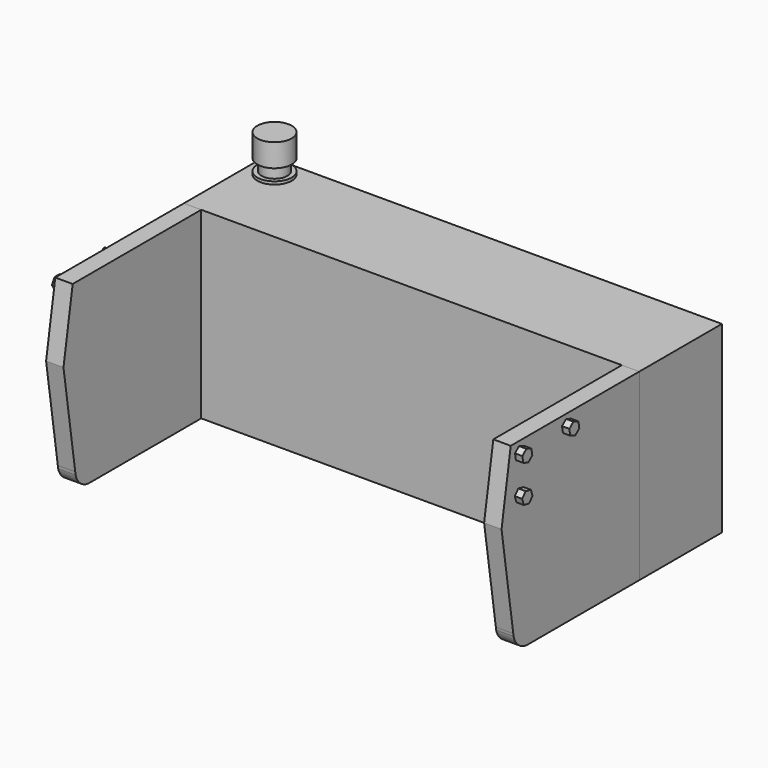
from build123d import *

# Parameters (mm, degrees)
F0_W      = 15.748
F0_H      = 6.35
F1_DEPTH  = 3.571875
F3_DEPTH  = 0.60198
F5_DEPTH  = 0.60198
F6_R      = 0.5953125
F7_DEPTH  = 0.09921748
F8_R      = 0.4445
F9_DEPTH  = 0.396875
F11_DEPTH = 0.254
F12_DEPTH = 0.254
F13_DEPTH = 0.254
F15_DEPTH = 0.254
F16_DEPTH = 0.254
F17_DEPTH = 0.254
F18_R     = 0.5953125
F18_R_2   = 0.4445
F19_DEPTH = 0.79375


with BuildPart() as f1:
    # F0 (on Front) → F1 (new body)
    with BuildSketch(Plane.XZ):
        Rectangle(F0_W, F0_H)
    extrude(amount=F1_DEPTH)

    # F6 (on face) → F7 (join)
    with BuildSketch(Plane.XY.offset(3.175)):
        with Locations((-7.017956581, -0.7218440296)):
            Circle(F6_R)
    extrude(amount=F7_DEPTH)

    # F8 (on face) → F9 (join)
    with BuildSketch(Plane.XY.offset(3.27421748)):
        with Locations((-7.017956581, -0.7218440296)):
            Circle(F8_R)
    extrude(amount=F9_DEPTH)

    # F18 (on face) → F19 (join)
    with BuildSketch(Plane.XY.offset(3.67109248)):
        with Locations((-7.017956581, -0.7218440296)):
            Circle(F18_R)
        with Locations((-7.017956581, -0.7218440296)):
            Circle(F18_R_2, mode=Mode.SUBTRACT)
        with Locations((-7.017956581, -0.7218440296)):
            Circle(F18_R_2)
    extrude(amount=F19_DEPTH)


with BuildPart() as f3:
    # F2 (on face) → F3 (new body)
    with BuildSketch(Plane(origin=(-7.874, 0, 0), x_dir=(0, -1, 0), z_dir=(-1, 0, 0))):
        with BuildLine():
            Line((9.128125, 3.175), (3.571875, 3.175))
            Line((3.571875, 3.175), (3.571875, -3.175))
            Line((3.571875, -3.175), (8.334375, -3.175))
            Line((8.334375, -3.175), (8.4411502676, -3.175))
            ThreePointArc((8.4411502676, -3.175), (8.799876088, -3.0242646213), (9.0021573343, -2.6918677712))
            Line((9.0021573343, -2.6918677712), (9.0179964259, -2.5862738274))
            Line((9.0179964259, -2.5862738274), (9.525, 0.79375))
            Line((9.525, 0.79375), (9.128125, 3.175))
        make_face()
    extrude(amount=-F3_DEPTH)

    # F10 (on face) → F11 (join)
    with BuildSketch(Plane(origin=(-7.874, 0, 0), x_dir=(0, -1, 0), z_dir=(-1, 0, 0))):
        Polygon((8.6135505511, 2.5955625), (8.8426864392, 2.5955625), (8.9572543833, 2.794), (8.8426864392, 2.9924375), (8.6135505511, 2.9924375), (8.4989826071, 2.794), align=None)
    extrude(amount=F11_DEPTH)

    # F10 (on face) → F12 (join)
    with BuildSketch(Plane(origin=(-7.874, 0, 0), x_dir=(0, -1, 0), z_dir=(-1, 0, 0))):
        Polygon((8.8426864392, 1.3255625), (8.9572543833, 1.524), (8.8426864392, 1.7224375), (8.6135505511, 1.7224375), (8.4989826071, 1.524), (8.6135505511, 1.3255625), align=None)
    extrude(amount=F12_DEPTH)

    # F10 (on face) → F13 (join)
    with BuildSketch(Plane(origin=(-7.874, 0, 0), x_dir=(0, -1, 0), z_dir=(-1, 0, 0))):
        Polygon((6.7025459962, 2.5649542787), (6.897691659, 2.6850435185), (6.8912641579, 2.9140892398), (6.6896909942, 3.0230457213), (6.4945453314, 2.9029564815), (6.5009728324, 2.6739107602), align=None)
    extrude(amount=F13_DEPTH)


with BuildPart() as f5:
    # F4 (on face) → F5 (new body)
    with BuildSketch(Plane.YZ.offset(7.874)):
        with BuildLine():
            Line((-3.571875, -3.175), (-3.571875, 3.175))
            Line((-3.571875, 3.175), (-9.128125, 3.175))
            Line((-9.128125, 3.175), (-9.525, 0.79375))
            Line((-9.525, 0.79375), (-9.0179964259, -2.5862738274))
            Line((-9.0179964259, -2.5862738274), (-9.0046285555, -2.6753929631))
            ThreePointArc((-9.0046285555, -2.6753929631), (-8.7974184271, -3.0214108164), (-8.4244911489, -3.175))
            Line((-8.4244911489, -3.175), (-8.334375, -3.175))
            Line((-8.334375, -3.175), (-3.571875, -3.175))
        make_face()
    extrude(amount=-F5_DEPTH)

    # F14 (on face) → F15 (join)
    with BuildSketch(Plane.YZ.offset(7.874)):
        Polygon((-8.6870932965, 2.5685666656), (-8.5123749013, 2.7168121971), (-8.5534001001, 2.9422455315), (-8.7691436939, 3.0194333344), (-8.943862089, 2.8711878029), (-8.9028368903, 2.6457544685), align=None)
    extrude(amount=F15_DEPTH)

    # F14 (on face) → F16 (join)
    with BuildSketch(Plane.YZ.offset(7.874)):
        Polygon((-6.6569290081, 2.5682403063), (-6.4810101217, 2.7150592445), (-6.5201996088, 2.9408189382), (-6.7353079822, 3.0197596937), (-6.9112268686, 2.8729407555), (-6.8720373816, 2.6471810618), align=None)
    extrude(amount=F16_DEPTH)

    # F14 (on face) → F17 (join)
    with BuildSketch(Plane.YZ.offset(7.874)):
        Polygon((-8.5750005157, 1.6944644819), (-8.7991860772, 1.7418363009), (-8.9523040567, 1.5713718191), (-8.8812364747, 1.3535355181), (-8.6570509132, 1.3061636991), (-8.5039329337, 1.4766281809), align=None)
    extrude(amount=F17_DEPTH)


solid = Compound([f1.part, f3.part, f5.part])
